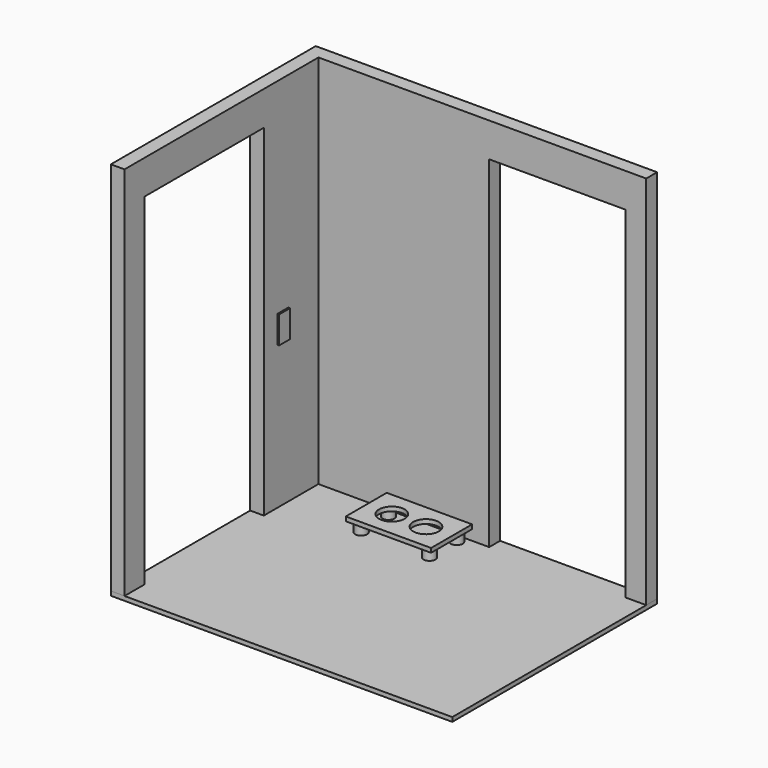
from build123d import *

# Parameters (mm, degrees)
F0_W      = 2000
F0_H      = 1500
F1_DEPTH  = 25
F3_DEPTH  = 2200
F4_W      = 875
F4_H      = 2000
F5_DEPTH  = 80.001
F6_W      = 800
F6_H      = 2000
F7_DEPTH  = 80.001
F8_R      = 35
F9_DEPTH  = 60
F10_W     = 500
F10_H     = 300
F10_R     = 75
F11_DEPTH = 25
F12_W     = 80
F12_H     = 160
F13_DEPTH = 10


with BuildPart() as f1:
    # F0 (on Top) → F1 (new body)
    with BuildSketch(Plane.XY):
        with Locations((0, 750)):
            Rectangle(F0_W, F0_H)
    extrude(amount=F1_DEPTH)


with BuildPart() as f3:
    # F2 (on face) → F3 (new body)
    with BuildSketch(Plane.XY.offset(25)):
        Polygon((-1000, 1500), (-1000, 0), (-920, 0), (-920, 1420), (1000, 1420), (1000, 1500), align=None)
    extrude(amount=F3_DEPTH)

    # F4 (on face) → F5 (cut, through all)
    with BuildSketch(Plane.YZ.offset(-920)):
        with Locations((582.5, 1025)):
            Rectangle(F4_W, F4_H)
    extrude(amount=-F5_DEPTH, mode=Mode.SUBTRACT)

    # F6 (on face) → F7 (cut, through all)
    with BuildSketch(Plane.XZ.offset(-1420)):
        with Locations((480, 1025)):
            Rectangle(F6_W, F6_H)
    extrude(amount=-F7_DEPTH, mode=Mode.SUBTRACT)


with BuildPart() as f9:
    # F8 (on face) → F9 (new body)
    with BuildSketch(Plane.XY.offset(25)):
        with Locations((-470, 1370)):
            Circle(F8_R)
    extrude(amount=F9_DEPTH)



with BuildPart() as f9b:
    # F8 (on face) → F9, piece 2 (new body)
    with BuildSketch(Plane.XY.offset(25)):
        with Locations((-470, 1170)):
            Circle(F8_R)
    extrude(amount=F9_DEPTH)


with BuildPart() as f9c:
    # F8 (on face) → F9, piece 3 (new body)
    with BuildSketch(Plane.XY.offset(25)):
        with Locations((-70, 1370)):
            Circle(F8_R)
    extrude(amount=F9_DEPTH)


with BuildPart() as f9d:
    # F8 (on face) → F9, piece 4 (new body)
    with BuildSketch(Plane.XY.offset(25)):
        with Locations((-70, 1170)):
            Circle(F8_R)
    extrude(amount=F9_DEPTH)


with BuildPart() as f9_1:
    add(f9.part)

    add(f9b.part)  # F11 merges F9b

    add(f9c.part)  # F11 merges F9c

    add(f9d.part)  # F11 merges F9d
    # F10 (on face) → F11 (join)
    with BuildSketch(Plane.XY.offset(85)):
        with Locations((-270, 1270)):
            Rectangle(F10_W, F10_H)
        with Locations((-370, 1270)):
            Circle(F10_R, mode=Mode.SUBTRACT)
        with Locations((-170, 1270)):
            Circle(F10_R, mode=Mode.SUBTRACT)
    extrude(amount=F11_DEPTH)


with BuildPart() as f13:
    # F12 (on face) → F13 (new body)
    with BuildSketch(Plane.YZ.offset(-920)):
        with Locations((1160, 945)):
            Rectangle(F12_W, F12_H)
    extrude(amount=F13_DEPTH)


solid = Compound([f1.part, f3.part, f9_1.part, f13.part])
